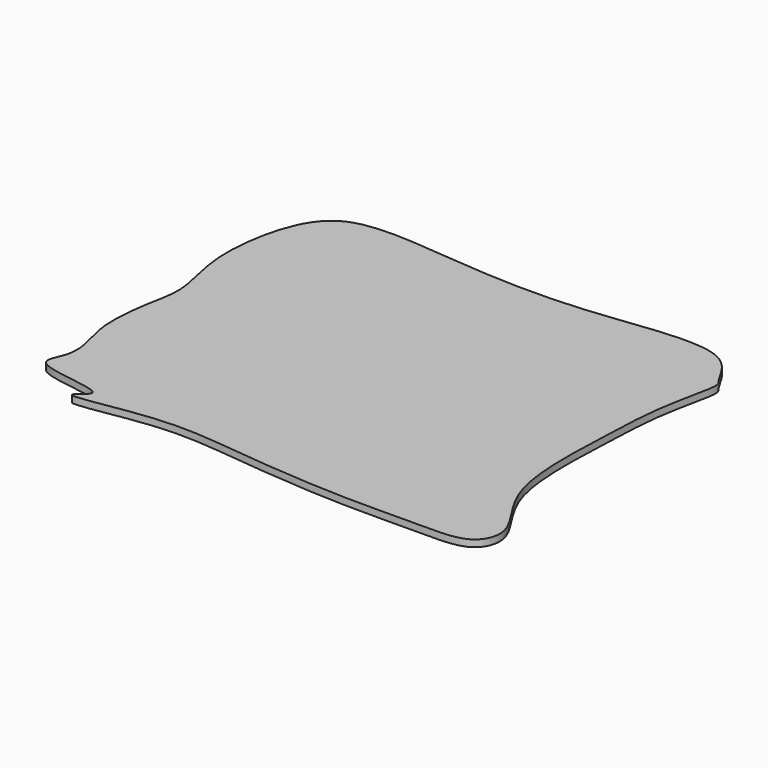
from build123d import *

# Parameters (mm, degrees)
F1_DEPTH = 3


with BuildPart() as f1:
    # F0 (on Top) → F1 (new body)
    with BuildSketch(Plane.XY):
        with BuildLine():
            add(Edge.make_bspline(
                [(-82.6555969008, 57.4273836392), (-86.8509107166, 47.6062013087), (-90.7484760611, 21.4076033555), (-81.6347431983, -2.6011826991), (-86.117260804, -19.4278734054), (-88.136488429, -41.3056331169), (-84.0248459163, -53.0155931512), (-82.0329747067, -65.9705011652), (-92.2250422497, -79.3663468846), (-49.6370760958, -79.3777386922), (-72.9888325744, -92.189402783), (-26.9119842618, -81.4658037693), (6.5116065015, -86.244854396), (53.9173397512, -90.0774088091), (88.087810206, -89.0035102782), (112.2122246121, -89.7021865993), (118.7828912396, -72.5400883874), (95.763820094, -50.3123301429), (98.510724479, 0.7815919131), (99.1826304186, 31.2576976423), (106.0576722996, 56.0856496259), (102.2492274619, 58.3551018408), (93.7771218985, 80.5027841462), (34.3955213906, 68.5538730367), (-19.4969161917, 70.6243115576), (-68.6623958643, 76.89712871), (-79.470324424, 64.8840705856), (-82.6555969008, 57.4273836392)],
                knots=[0, 0, 0, 0, 0.0478023422, 0.0874571711, 0.1202408444, 0.1568756064, 0.185023228, 0.2135980572, 0.2378752489, 0.2789618791, 0.3000153832, 0.3440251691, 0.394982171, 0.4489889152, 0.4965325089, 0.5330283935, 0.5609825133, 0.6033795325, 0.6592990444, 0.7057989122, 0.7429440989, 0.7575064331, 0.7900470352, 0.8486346843, 0.9103537123, 0.9637062943, 1, 1, 1, 1], degree=3))
        make_face()
    extrude(amount=F1_DEPTH)


solid = f1.part
